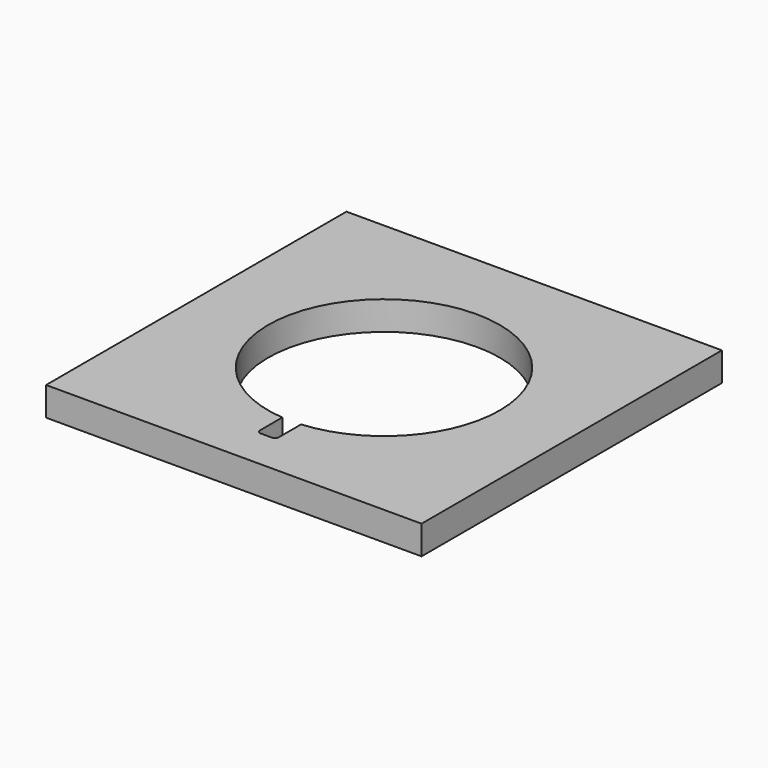
from build123d import *

# Parameters (mm, degrees)
F0_W     = 76.2
F0_H     = 76.2
F1_DEPTH = 5.842
F3_DEPTH = 5.842


with BuildPart() as f1:
    # F0 (on Top) → F1 (new body)
    with BuildSketch(Plane.XY):
        with Locations((-38.1, 38.1)):
            Rectangle(F0_W, F0_H)
    extrude(amount=F1_DEPTH)

    # F2 (on face) → F3 (cut, through all)
    with BuildSketch(Plane.XY.offset(5.842)):
        with BuildLine():
            ThreePointArc((-36.195, 14.682357), (-38.1, 14.605), (-40.005, 14.682357))
            Line((-40.005, 14.682357), (-40.005, 9.017))
            ThreePointArc((-40.005, 9.017), (-39.781815, 8.478185), (-39.243, 8.255))
            Line((-39.243, 8.255), (-36.957, 8.255))
            ThreePointArc((-36.957, 8.255), (-36.418185, 8.478185), (-36.195, 9.017))
            Line((-36.195, 9.017), (-36.195, 14.682357))
        make_face()
        with BuildLine():
            Line((-40.005, 38.1), (-40.005, 14.682357))
            ThreePointArc((-40.005, 14.682357), (-38.1, 14.605), (-36.195, 14.682357))
            Line((-36.195, 14.682357), (-36.195, 38.1))
            Line((-36.195, 38.1), (-40.005, 38.1))
        make_face()
        with BuildLine():
            ThreePointArc((-36.195, 14.682357), (-20.826132, 22.174281), (-14.605, 38.1))
            ThreePointArc((-14.605, 38.1), (-54.025719, 55.373868), (-40.005, 14.682357))
            Line((-40.005, 14.682357), (-40.005, 38.1))
            Line((-40.005, 38.1), (-36.195, 38.1))
            Line((-36.195, 38.1), (-36.195, 14.682357))
        make_face()
    extrude(amount=-F3_DEPTH, mode=Mode.SUBTRACT)


solid = f1.part
